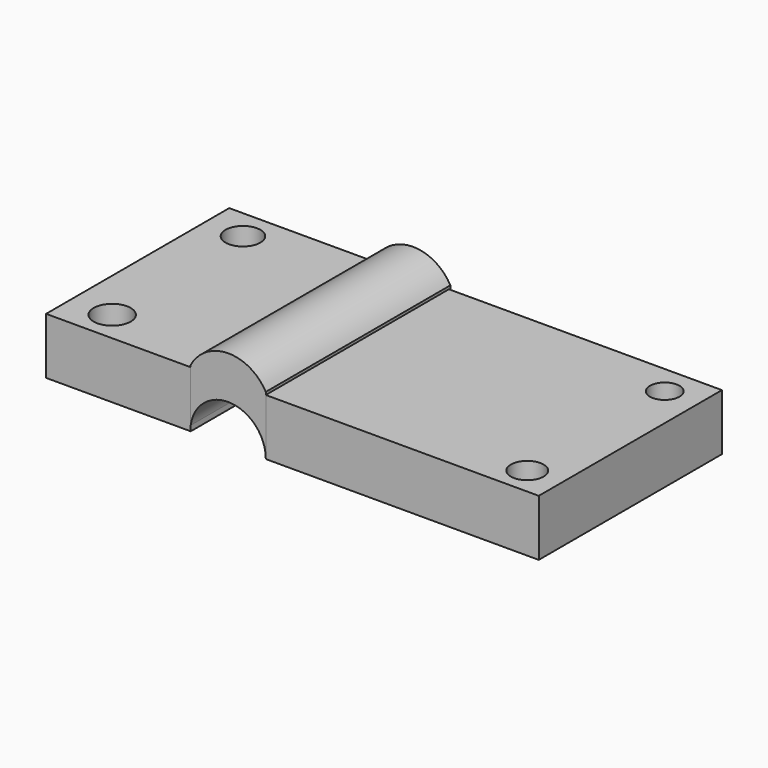
from build123d import *

# Parameters (mm, degrees)
F0_W     = 25.6395349279
F0_H     = 40.5798666179
F0_R     = 3.2828979143
F0_R_2   = 3.0844546854
F1_DEPTH = 10
F0_W_2   = 48.3873933554
F0_R_3   = 2.8980934491
F0_R_4   = 2.6220674829
F3_DEPTH = 40.9


with BuildPart() as f1:
    # F0 (on Top) → F1 (new body)
    with BuildSketch(Plane.XY):
        with Locations((-26.1214817874, 20.289933309)):
            Rectangle(F0_W, F0_H)
        with Locations((-31.6156670451, 5.4941866547)):
            Circle(F0_R, mode=Mode.SUBTRACT)
        with Locations((-32.1940034628, 35.1820699871)):
            Circle(F0_R_2, mode=Mode.SUBTRACT)
    extrude(amount=F1_DEPTH)


with BuildPart() as f1b:
    # F0 (on Top) → F1, piece 2 (new body)
    with BuildSketch(Plane.XY):
        with Locations((24.1936966777, 20.289933309)):
            Rectangle(F0_W_2, F0_H)
        with Locations((42.4112640321, 4.9158507027)):
            Circle(F0_R_3, mode=Mode.SUBTRACT)
        with Locations((42.4112640321, 35.3748500347)):
            Circle(F0_R_4, mode=Mode.SUBTRACT)
    extrude(amount=F1_DEPTH)


with BuildPart() as f3:
    # F2 (on Front) → F3 (new body)
    with BuildSketch(Plane.XZ):
        with BuildLine():
            Line((0, 0.1313262168), (0, 10.4859210551))
            ThreePointArc((0, 10.4859210551), (-6.7486562288, 14.3467999869), (-13.3608840406, 10.2566666901))
            Line((-13.3608840406, 10.2566666901), (-13.3608840406, 0.1313262168))
            ThreePointArc((-13.3608840406, 0.1313262168), (-6.6804420203, 6.7464278274), (0, 0.1313262168))
        make_face()
    extrude(amount=-F3_DEPTH)


with BuildPart() as f3b:
    # F2 (on Front) → F3, piece 2 (new body)
    with BuildSketch(Plane.XZ):
        with BuildLine():
            ThreePointArc((0, 0), (0.0003226987, 0.0656631084), (0, 0.1313262168))
            Line((0, 0.1313262168), (0, 0))
        make_face()
    extrude(amount=-F3_DEPTH)


with BuildPart() as f3c:
    # F2 (on Front) → F3, piece 3 (new body)
    with BuildSketch(Plane.XZ):
        with BuildLine():
            Line((-13.3608840406, 0), (-13.3608840406, 0.1313262168))
            ThreePointArc((-13.3608840406, 0.1313262168), (-13.3612067393, 0.0656631084), (-13.3608840406, 0))
        make_face()
    extrude(amount=-F3_DEPTH)


solid = Compound([f1.part, f1b.part, f3.part, f3b.part, f3c.part])
